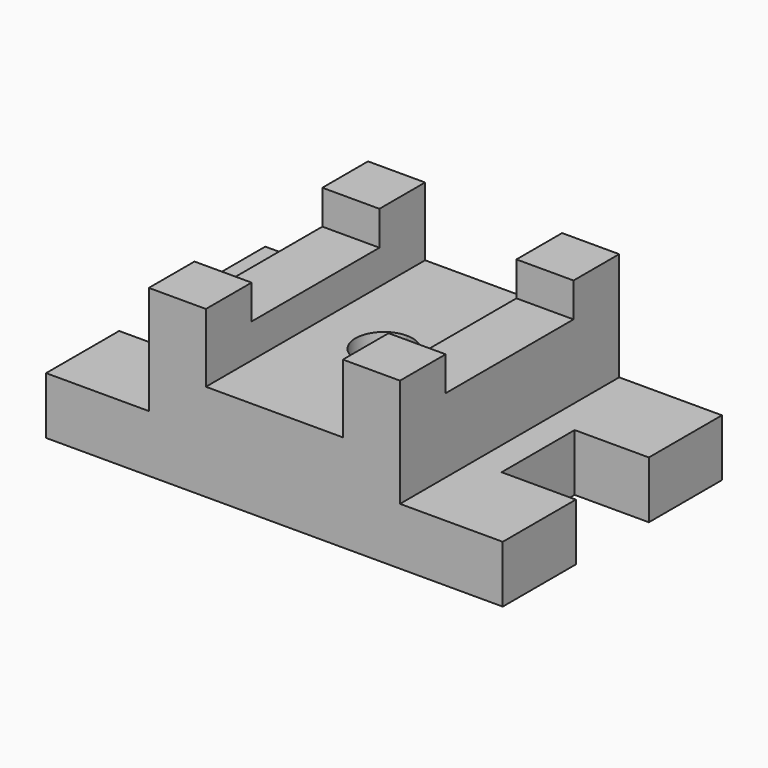
from build123d import *

# Parameters (mm, degrees)
F0_W     = 31.75
F0_H     = 31.75
F0_H_2   = 44.45
F1_DEPTH = 31.75
F2_DEPTH = 60.325
F3_DEPTH = 41.275
F4_DEPTH = 22.225
F6_DEPTH = 53.976


with BuildPart() as f1:
    # F0 (on Top) → F1 (new body)
    with BuildSketch(Plane.XY):
        Polygon((-142.9424003214, -5.3708956957), (-142.9424003214, -56.1708956957), (-85.7924003214, -56.1708956957), (-85.7924003214, -24.4208956957), (-85.7924003214, 20.0291043043), (-85.7924003214, 64.4791043043), (-85.7924003214, 96.2291043043), (-142.9424003214, 96.2291043043), (-142.9424003214, 45.4291043043), (-101.6674003214, 45.4291043043), (-101.6674003214, -5.3708956957), align=None)
        with Locations((-69.9174003214, -40.2958956957)):
            Rectangle(F0_W, F0_H)
        with Locations((-69.9174003214, -2.1958956957)):
            Rectangle(F0_W, F0_H_2)
        with Locations((-69.9174003214, 42.2541043043)):
            Rectangle(F0_W, F0_H_2)
        with Locations((-69.9174003214, 80.3541043043)):
            Rectangle(F0_W, F0_H)
        Polygon((-54.0424003214, -24.4208956957), (-54.0424003214, -56.1708956957), (-15.9424003214, -56.1708956957), (-15.9424003214, 20.0291043043), (-54.0424003214, 20.0291043043), align=None)
        Polygon((-54.0424003214, 20.0291043043), (-15.9424003214, 20.0291043043), (-15.9424003214, 96.2291043043), (-54.0424003214, 96.2291043043), (-54.0424003214, 64.4791043043), align=None)
        Polygon((-15.9424003214, 20.0291043043), (-15.9424003214, -56.1708956957), (22.1575996786, -56.1708956957), (22.1575996786, -24.4208956957), (22.1575996786, 20.0291043043), align=None)
        with Locations((38.0325996786, -40.2958956957)):
            Rectangle(F0_W, F0_H)
        Polygon((53.9075996786, -24.4208956957), (53.9075996786, -56.1708956957), (111.0575996786, -56.1708956957), (111.0575996786, -5.3708956957), (69.7825996786, -5.3708956957), (69.7825996786, 45.4291043043), (111.0575996786, 45.4291043043), (111.0575996786, 96.2291043043), (53.9075996786, 96.2291043043), (53.9075996786, 64.4791043043), (53.9075996786, 20.0291043043), align=None)
        Polygon((-15.9424003214, 96.2291043043), (-15.9424003214, 20.0291043043), (22.1575996786, 20.0291043043), (22.1575996786, 64.4791043043), (22.1575996786, 96.2291043043), align=None)
        with Locations((38.0325996786, 80.3541043043)):
            Rectangle(F0_W, F0_H)
        with Locations((38.0325996786, 42.2541043043)):
            Rectangle(F0_W, F0_H_2)
        with Locations((38.0325996786, -2.1958956957)):
            Rectangle(F0_W, F0_H_2)
    extrude(amount=-F1_DEPTH)

    # F0 (on Top) → F2 (join)
    with BuildSketch(Plane.XY):
        with Locations((-69.9174003214, 80.3541043043)):
            Rectangle(F0_W, F0_H)
        with Locations((-69.9174003214, -40.2958956957)):
            Rectangle(F0_W, F0_H)
        with Locations((38.0325996786, 80.3541043043)):
            Rectangle(F0_W, F0_H)
        with Locations((38.0325996786, -40.2958956957)):
            Rectangle(F0_W, F0_H)
    extrude(amount=F2_DEPTH)

    # F0 (on Top) → F3 (join)
    with BuildSketch(Plane.XY):
        with Locations((-69.9174003214, -2.1958956957)):
            Rectangle(F0_W, F0_H_2)
        with Locations((-69.9174003214, 42.2541043043)):
            Rectangle(F0_W, F0_H_2)
        with Locations((38.0325996786, 42.2541043043)):
            Rectangle(F0_W, F0_H_2)
        with Locations((38.0325996786, -2.1958956957)):
            Rectangle(F0_W, F0_H_2)
    extrude(amount=F3_DEPTH)

    # F0 (on Top) → F4 (join)
    with BuildSketch(Plane.XY):
        Polygon((-54.0424003214, 20.0291043043), (-15.9424003214, 20.0291043043), (-15.9424003214, 96.2291043043), (-54.0424003214, 96.2291043043), (-54.0424003214, 64.4791043043), align=None)
        Polygon((-54.0424003214, -24.4208956957), (-54.0424003214, -56.1708956957), (-15.9424003214, -56.1708956957), (-15.9424003214, 20.0291043043), (-54.0424003214, 20.0291043043), align=None)
        Polygon((-15.9424003214, 96.2291043043), (-15.9424003214, 20.0291043043), (22.1575996786, 20.0291043043), (22.1575996786, 64.4791043043), (22.1575996786, 96.2291043043), align=None)
        Polygon((-15.9424003214, 20.0291043043), (-15.9424003214, -56.1708956957), (22.1575996786, -56.1708956957), (22.1575996786, -24.4208956957), (22.1575996786, 20.0291043043), align=None)
    extrude(amount=F4_DEPTH)

    # F5 (on face) → F6 (cut, through all)
    with BuildSketch(Plane.XY.offset(22.225)):
        with BuildLine():
            ThreePointArc((-0.0674003214, 20.0291043043), (-4.71708017, 31.2544244557), (-15.9424003214, 35.9041043043))
            ThreePointArc((-15.9424003214, 35.9041043043), (-27.1677204727, 8.803784153), (-0.0674003214, 20.0291043043))
        make_face()
    extrude(amount=-F6_DEPTH, mode=Mode.SUBTRACT)


solid = f1.part
